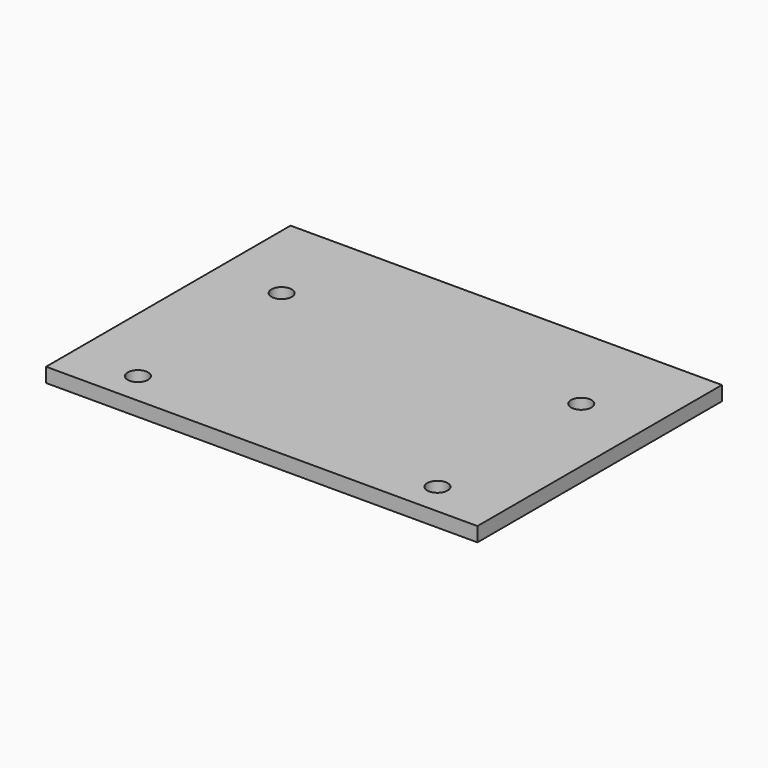
from build123d import *

# Parameters (mm, degrees)
F0_W     = 180
F0_H     = 255
F0_R     = 8.5
F1_DEPTH = 12


with BuildPart() as f1:
    # F0 (on Top) → F1 (new body)
    with BuildSketch(Plane.XY):
        with Locations((90, 127.5)):
            Rectangle(F0_W, F0_H)
        with Locations((55, 27)):
            Circle(F0_R, mode=Mode.SUBTRACT)
        with Locations((55, 177)):
            Circle(F0_R, mode=Mode.SUBTRACT)
        with Locations((270, 127.5)):
            Rectangle(F0_W, F0_H)
        with Locations((305, 27)):
            Circle(F0_R, mode=Mode.SUBTRACT)
        with Locations((305, 177)):
            Circle(F0_R, mode=Mode.SUBTRACT)
    extrude(amount=F1_DEPTH)


solid = f1.part
